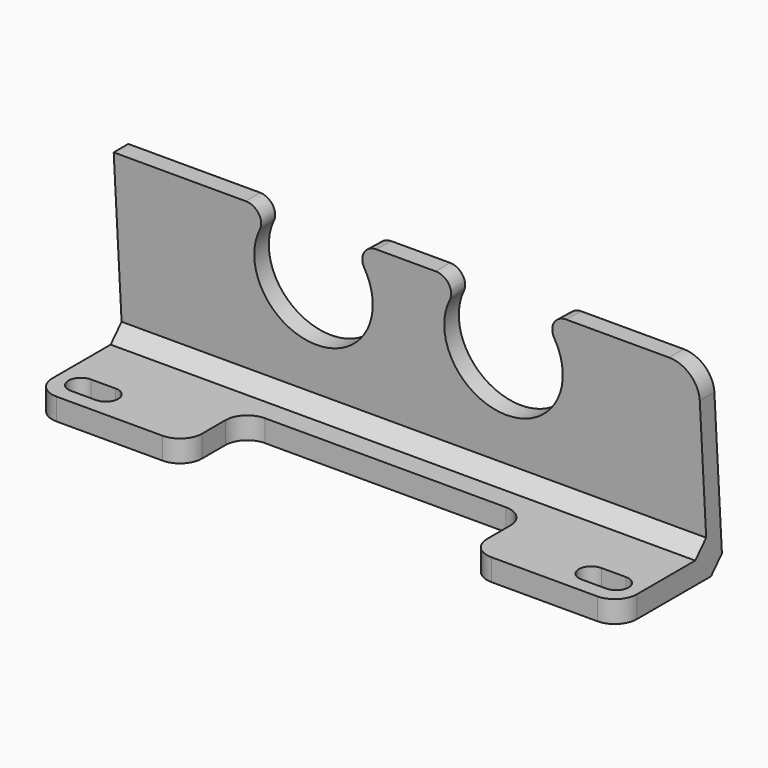
from build123d import *

# Parameters (mm, degrees)
PAD006_DEPTH    = 40
SKETCH009_W     = 14
SKETCH009_H     = 39
POCKET002_DEPTH = 5
SKETCH010_R     = 8.1
POCKET003_DEPTH = 5
FILLET001_R     = 3
FILLET002_R     = 2
FILLET003_R     = 4
CHAMFER_SIZE    = 2
CHAMFER001_SIZE = 2


with BuildPart() as part:
    # Sketch008 → Pad006 (new body, symmetric)
    with BuildSketch(Plane.YZ):
        Polygon((97.701339, 0), (115.394972, 0), (113.719903, 25.952241), (111.219903, 25.952241), (112.701339, 3), (97.701339, 3), align=None)
    extrude(amount=PAD006_DEPTH, both=True)

    # Sketch009 (on Face5 of Pad006) → Pocket002 (cut)
    with BuildSketch(Plane(origin=(0, 0, 3), x_dir=(0, -1, 0), z_dir=(0, 0, 1))):
        with Locations((-100.701339, 0)):
            Rectangle(SKETCH009_W, SKETCH009_H)
        with BuildLine():
            ThreePointArc((-103.101339, -36.625), (-101.401339, -38.325), (-99.701339, -36.625))
            Line((-99.701339, -36.625), (-99.701339, -33.225))
            ThreePointArc((-99.701339, -33.225), (-101.401339, -31.525), (-103.101339, -33.225))
            Line((-103.101339, -36.625), (-103.101339, -33.225))
        make_face()
        with BuildLine():
            ThreePointArc((-103.101339, 33.225), (-101.401339, 31.525), (-99.701339, 33.225))
            Line((-99.701339, 33.225), (-99.701339, 36.625))
            ThreePointArc((-99.701339, 36.625), (-101.401339, 38.325), (-103.101339, 36.625))
            Line((-103.101339, 33.225), (-103.101339, 36.625))
        make_face()
    extrude(amount=-POCKET002_DEPTH, mode=Mode.SUBTRACT)

    # Sketch010 (on Face3 of Pocket002) → Pocket003 (cut)
    with BuildSketch(Plane(origin=(0, 114.916235, 7.417187), x_dir=(0, -0.06441, 0.997924), z_dir=(0, 0.997924, 0.06441))):
        with Locations((12, -13)):
            Circle(SKETCH010_R)
        with Locations((12, 13)):
            Circle(SKETCH010_R)
    extrude(amount=-POCKET003_DEPTH, mode=Mode.SUBTRACT)

    # Fillet001
    fillet001_edges = [part.edges().sort_by_distance(p)[0] for p in [
        (-19.5, 97.701339, 1.5),
        (-40, 97.701339, 1.5),
        (19.5, 107.701339, 1.5),
        (19.5, 97.701339, 1.5),
        (40, 97.701339, 1.5),
        (-19.5, 107.701339, 1.5),
    ]]
    fillet(fillet001_edges, radius=FILLET001_R)

    # Fillet002
    fillet002_edges = [part.edges().sort_by_distance(p)[0] for p in [
        (-17.618693, 112.469704, 25.952241),
        (-8.381307, 112.469704, 25.952241),
        (8.381307, 112.469704, 25.952241),
        (17.618693, 112.469704, 25.952241),
    ]]
    fillet(fillet002_edges, radius=FILLET002_R)

    # Fillet003
    fillet003_edges = [part.edges().sort_by_distance(p)[0] for p in [
        (40, 112.469903, 25.952241),
    ]]
    fillet(fillet003_edges, radius=FILLET003_R)

    # Chamfer
    chamfer_edges = [part.edges().sort_by_distance(p)[0] for p in [
        (0, 112.701339, 3),
    ]]
    chamfer(chamfer_edges, length=CHAMFER_SIZE)

    # Chamfer001
    chamfer001_edges = [part.edges().sort_by_distance(p)[0] for p in [
        (0, 115.394972, 0),
    ]]
    chamfer(chamfer001_edges, length=CHAMFER001_SIZE)


with BuildPart() as part_1:
    # Body005 placement: moved
    add(part.part.moved(Location((0, 0, 3))))


solid = part_1.part
